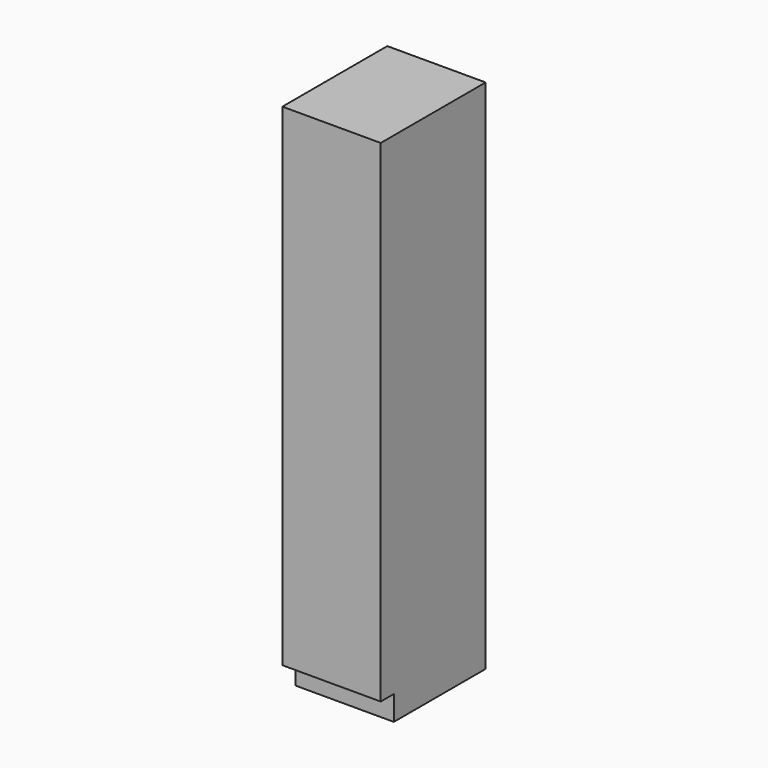
from build123d import *

# Parameters (mm, degrees)
F0_W     = 457.2
F0_H     = 76.2
F0_H_2   = 533.4
F1_DEPTH = 2286
F2_DEPTH = 114.3


with BuildPart() as f1:
    # F0 (on Top) → F1 (new body)
    with BuildSketch(Plane.XY):
        with Locations((0, -266.7)):
            Rectangle(F0_W, F0_H)
        with Locations((0, 38.1)):
            Rectangle(F0_W, F0_H_2)
    extrude(amount=F1_DEPTH)

    # F0 (on Top) → F2 (join)
    with BuildSketch(Plane.XY):
        with Locations((0, 38.1)):
            Rectangle(F0_W, F0_H_2)
    extrude(amount=-F2_DEPTH)


solid = f1.part
